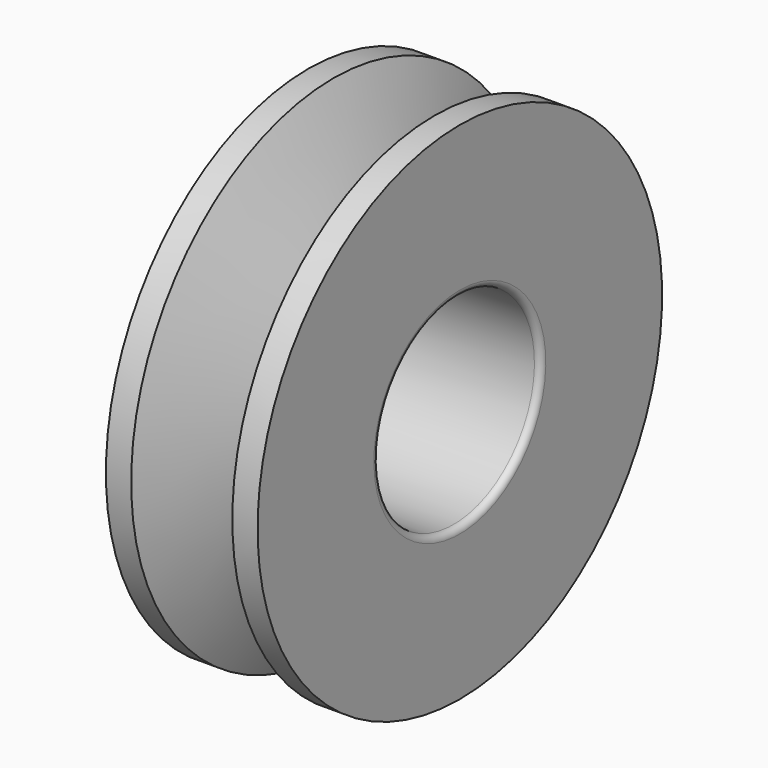
from build123d import *


with BuildPart() as f1:
    # F0 (on Front) → F1 (revolve)
    with BuildSketch(Plane.XZ):
        with BuildLine():
            Line((12, 8.5), (12, 20))
            Line((12, 20), (10, 20))
            Line((10, 20), (6.999984, 12.582049))
            ThreePointArc((6.999984, 12.582049), (6.081312, 11.95701), (5.15229, 12.56656))
            Line((5.15229, 12.56656), (2, 20))
            Line((2, 20), (0, 20))
            Line((0, 20), (0, 8.5))
            ThreePointArc((0, 8.5), (0.146447, 8.146447), (0.5, 8))
            Line((0.5, 8), (11.5, 8))
            ThreePointArc((11.5, 8), (11.853553, 8.146447), (12, 8.5))
        make_face()
    revolve(axis=Axis((6, 0, 0), (1, 0, 0)))


solid = f1.part
